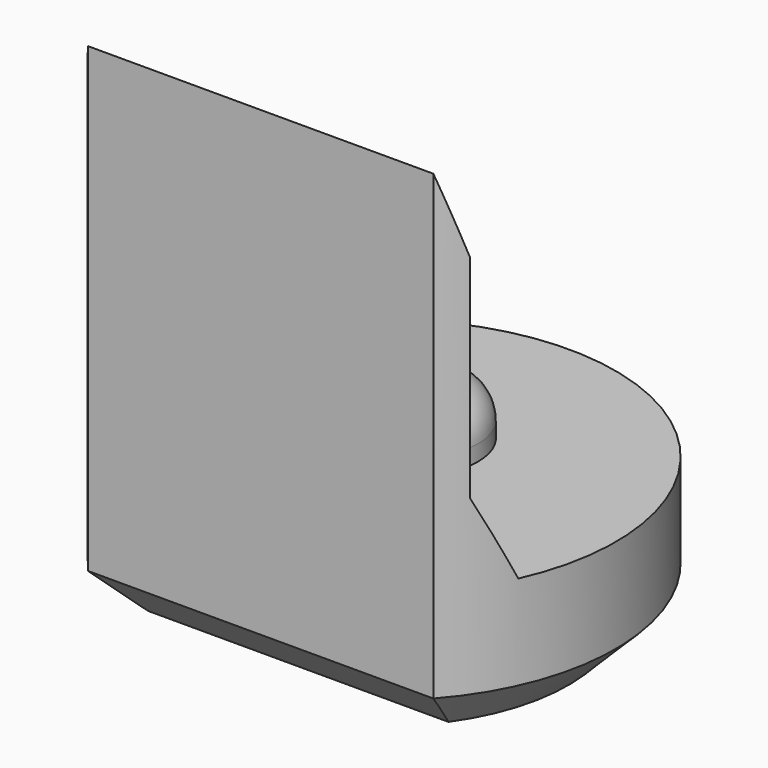
from build123d import *

# Parameters (mm, degrees)
PAD003_DEPTH         = 6.5
POCKET004_DEPTH      = 2.951
POCKET004_DEPTH_BACK = 2.951
SKETCH013_R          = 0.8
PAD006_DEPTH         = 0.7
FILLET_R             = 0.5
CHAMFER004_SIZE      = 0.6


with BuildPart() as part:
    # Sketch004 → Pad003 (new body)
    with BuildSketch(Plane.XY):
        with BuildLine():
            ThreePointArc((2.2, -1.9653244007), (0, 2.95), (-2.2, -1.9653244007))
            Line((-2.2, -1.9653244007), (2.2, -1.9653244007))
        make_face()
    extrude(amount=PAD003_DEPTH)

    # Sketch014 → Pocket004 (cut, two sides)
    with BuildSketch(Plane.YZ) as pocket004_sk:
        Polygon((-1.97, 6.5), (-1.67, 5.5), (-1.67, 2.8), (-1.22, 1.8), (4, 1.8), (4, 6.5), align=None)
    extrude(amount=-POCKET004_DEPTH, mode=Mode.SUBTRACT)
    extrude(pocket004_sk.sketch, amount=POCKET004_DEPTH_BACK, mode=Mode.SUBTRACT)

    # Sketch013 (on Face7 of Pocket004) → Pad006 (join)
    with BuildSketch(Plane.XY.offset(1.8)):
        with Locations((0, 0.5)):
            Circle(SKETCH013_R)
    extrude(amount=PAD006_DEPTH)

    # Fillet
    fillet_edges = [part.edges().sort_by_distance(p)[0] for p in [
        (-0.8, 0.5, 2.5),
    ]]
    fillet(fillet_edges, radius=FILLET_R)

    # Chamfer004
    chamfer004_edges = [part.edges().sort_by_distance(p)[0] for p in [
        (0, 2.95, 0),
        (0, -1.965324, 0),
    ]]
    chamfer(chamfer004_edges, length=CHAMFER004_SIZE)


with BuildPart() as part_1:
    # Body032 placement: moved
    add(part.part.moved(Location((0, 78, 0))))


solid = part_1.part
